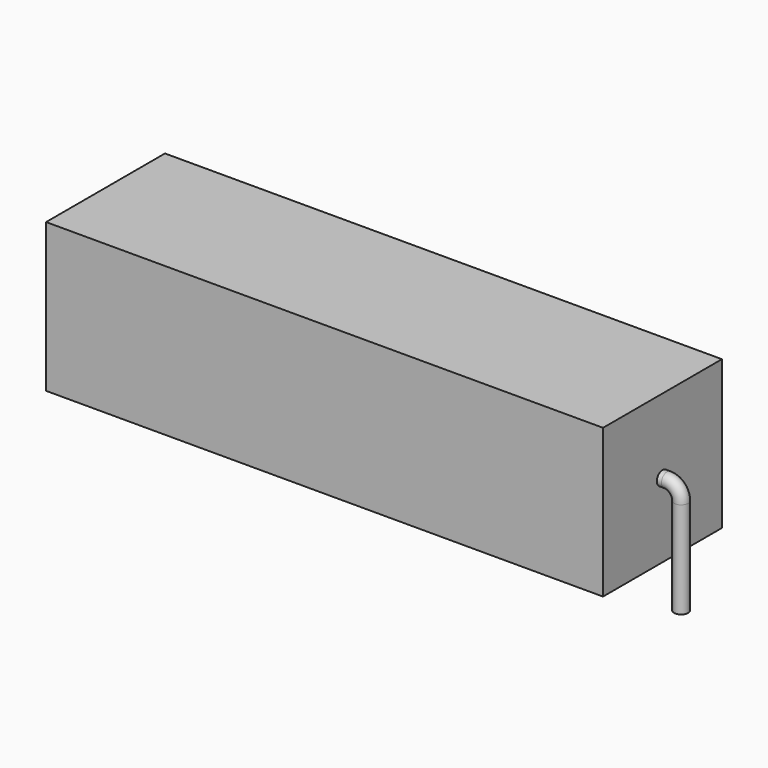
from build123d import *

# Parameters (mm, degrees)
SKETCH_R     = 0.6
SKETCH002_W  = 47.6
SKETCH002_H  = 12.7
PAD_DEPTH    = 6.35
SKETCH004_R  = 0.6
PAD001_DEPTH = 3


with BuildPart() as sweep_body:
    # Sweep: sweep along a path in Sketch001
    with BuildLine(Plane.XZ) as sweep_path:
        Line((0, -3), (0, 5.25))
        ThreePointArc((0, 5.25), (0.351475, 6.098531), (1.200009, 6.45))
        Line((1.200009, 6.45), (49.6, 6.45))
        ThreePointArc((49.6, 6.45), (50.448528, 6.098528), (50.8, 5.25))
        Line((50.8, 5.25), (50.8, -3))
    # Sketch → Sweep (sweep)
    with BuildSketch(Plane.XY.offset(-2)):
        Circle(SKETCH_R)
    sweep(path=sweep_path.line)


with BuildPart() as pad:
    # Sketch002 → Pad (new body, symmetric)
    with BuildSketch(Plane.XZ):
        with Locations((25.4, 6.45)):
            Rectangle(SKETCH002_W, SKETCH002_H)
    extrude(amount=PAD_DEPTH, both=True)


with BuildPart() as pad001:
    # Sketch004 → Pad001 (new body, symmetric)
    with BuildSketch(Plane.XY.offset(-0.2)):
        with Locations((7.935, 0)):
            Circle(SKETCH004_R)
        with Locations((42.865, 0)):
            Circle(SKETCH004_R)
    extrude(amount=PAD001_DEPTH, both=True)


solid = Compound([sweep_body.part, pad.part, pad001.part])
